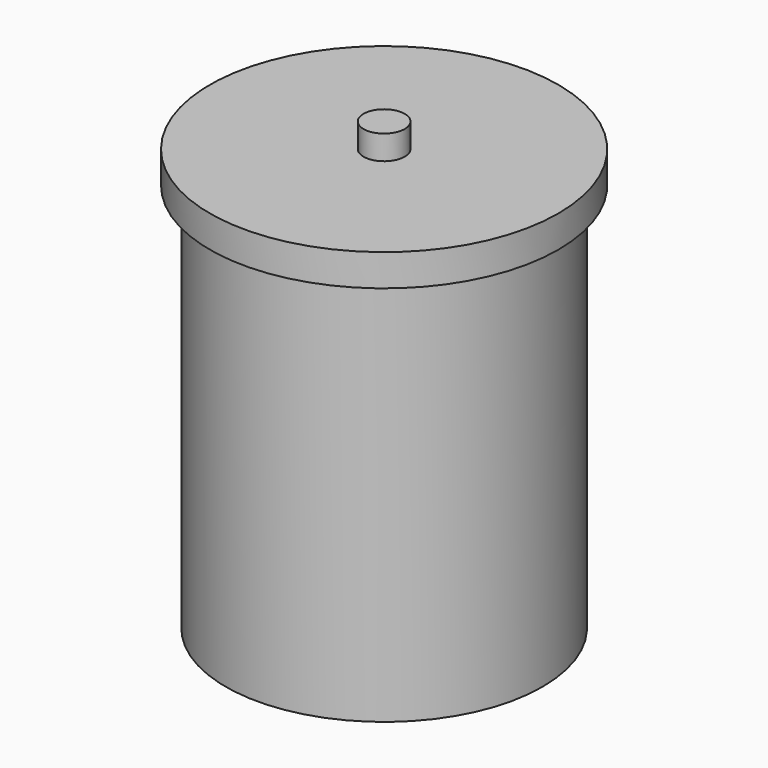
from build123d import *

# Parameters (mm, degrees)
F0_R     = 165.1
F1_DEPTH = 25.4
F2_R     = 165.1
F2_R_2   = 152.4
F3_DEPTH = 381
F4_R     = 181.61
F4_R_2   = 174.464405
F5_DEPTH = 25.4
F6_R     = 181.61
F7_DEPTH = 7.874
F8_R     = 21.457342
F9_DEPTH = 25.4


with BuildPart() as f1:
    # F0 (on Top) → F1 (new body)
    with BuildSketch(Plane.XY):
        Circle(F0_R)
    extrude(amount=F1_DEPTH)

    # F2 (on face) → F3 (join)
    with BuildSketch(Plane.XY.offset(25.4)):
        Circle(F2_R)
        Circle(F2_R_2, mode=Mode.SUBTRACT)
    extrude(amount=F3_DEPTH)


with BuildPart() as f5:
    # F4 (on face) → F5 (new body)
    with BuildSketch(Plane.XY.offset(406.4)):
        Circle(F4_R)
        Circle(F4_R_2, mode=Mode.SUBTRACT)
    extrude(amount=F5_DEPTH)

    # F6 (on face) → F7 (join)
    with BuildSketch(Plane.XY.offset(431.8)):
        Circle(F6_R)
    extrude(amount=F7_DEPTH)

    # F8 (on face) → F9 (join)
    with BuildSketch(Plane.XY.offset(439.674)):
        Circle(F8_R)
    extrude(amount=F9_DEPTH)


solid = Compound([f1.part, f5.part])
